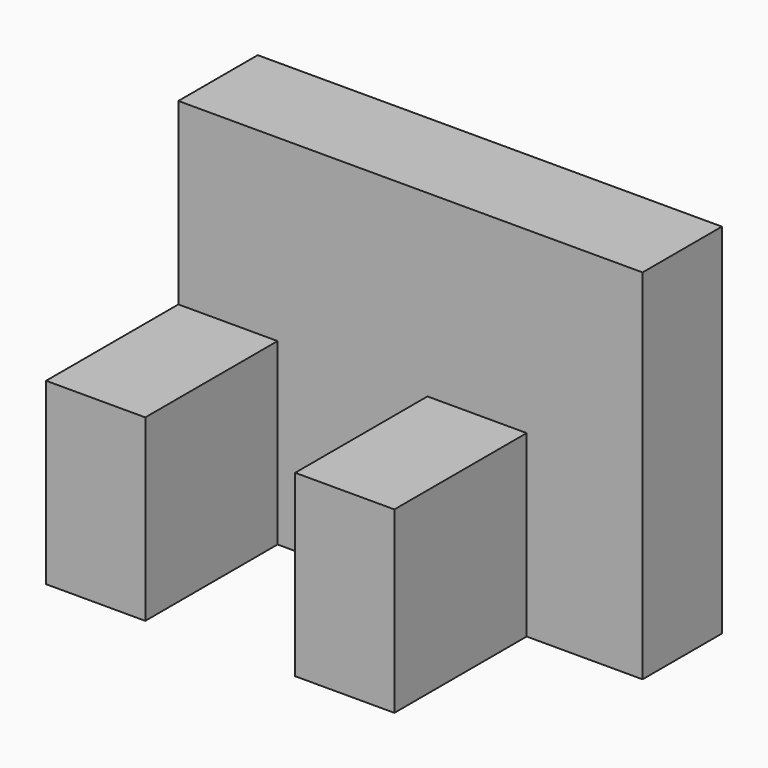
from build123d import *

# Parameters (mm, degrees)
F0_W     = 100
F0_H     = 65
F1_DEPTH = 18
F2_W     = 18
F2_H     = 32.5
F3_DEPTH = 30
F4_DEPTH = 30
F6_DEPTH = 25
F7_DEPTH = 43


with BuildPart() as f1:
    # F0 (on Front) → F1 (new body)
    with BuildSketch(Plane.XZ):
        Rectangle(F0_W, F0_H)
    extrude(amount=-F1_DEPTH)

    # F2 (on face) → F3 (join)
    with BuildSketch(Plane.XZ):
        with Locations((-25.2264994979, -16.25)):
            Rectangle(F2_W, F2_H)
    extrude(amount=F3_DEPTH)

    # F2 (on face) → F4 (join)
    with BuildSketch(Plane.XZ):
        with Locations((19.9700337052, -16.25)):
            Rectangle(F2_W, F2_H)
    extrude(amount=F4_DEPTH)

    # F5 (on face) → F6 (join)
    with BuildSketch(Plane.XZ):
        Polygon((-34.2264994979, -32.5), (-34.2264994979, -32.4203260243), (-34.2264994979, 0), (-34.2264994979, 32.5), (-50, 32.5), (-50, -32.5), align=None)
    extrude(amount=F6_DEPTH)

    # F7 (cut): a face of the model
    f7_faces = [f1.faces().sort_by_distance(p)[0] for p in [
        (-42.1132497489, -25, 0),
    ]]
    extrude(f7_faces, amount=-F7_DEPTH, mode=Mode.SUBTRACT)


solid = f1.part
